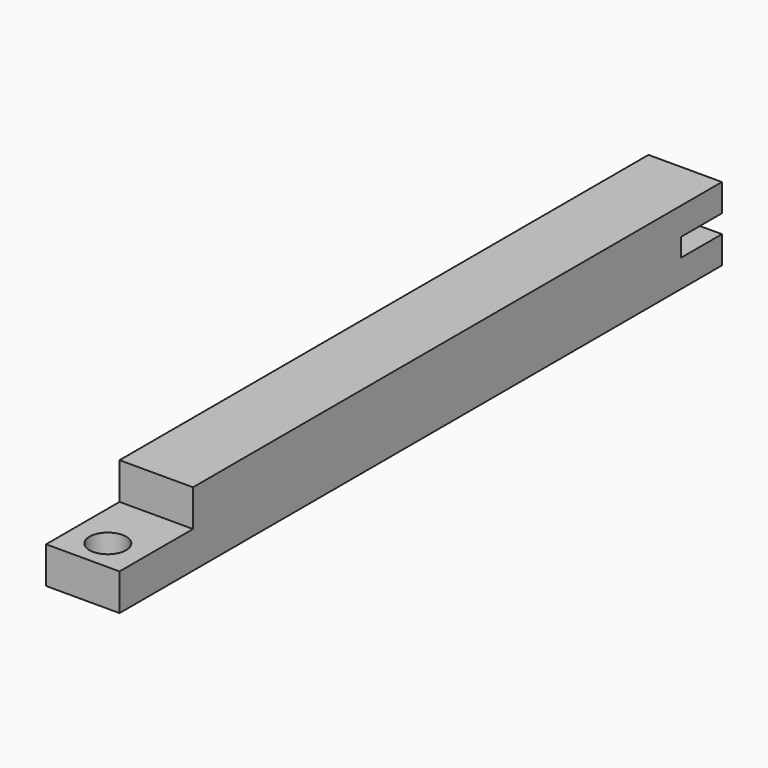
from build123d import *

# Parameters (mm, degrees)
F1_DEPTH = 25.4
F2_W     = 31.75
F2_H     = 12.7
F3_DEPTH = 25.4
F4_R     = 3.175
F5_DEPTH = 25.4
F6_R     = 6.35
F7_DEPTH = 25.4


with BuildPart() as f1:
    # F0 (on Right) → F1 (new body)
    with BuildSketch(Plane.YZ):
        Polygon((0, 25.4), (0, 0), (260.35, 0), (260.35, 9.525), (242.712691, 9.525), (242.712691, 15.875), (260.35, 15.875), (260.35, 25.4), align=None)
    extrude(amount=F1_DEPTH)

    # F2 (on face) → F3 (cut)
    with BuildSketch(Plane.YZ.offset(25.4)):
        with Locations((15.875, 19.05)):
            Rectangle(F2_W, F2_H)
    extrude(amount=-F3_DEPTH, mode=Mode.SUBTRACT)

    # F4 (on face) → F5 (join)
    with BuildSketch(Plane(origin=(0, 0, 0), x_dir=(1, 0, 0), z_dir=(0, 0, -1))):
        with Locations((12.7, -250.825)):
            Circle(F4_R)
    extrude(amount=-F5_DEPTH)

    # F6 (on face) → F7 (cut)
    with BuildSketch(Plane.XY.offset(12.7)):
        with Locations((12.7, 10.795)):
            Circle(F6_R)
    extrude(amount=-F7_DEPTH, mode=Mode.SUBTRACT)


solid = f1.part
